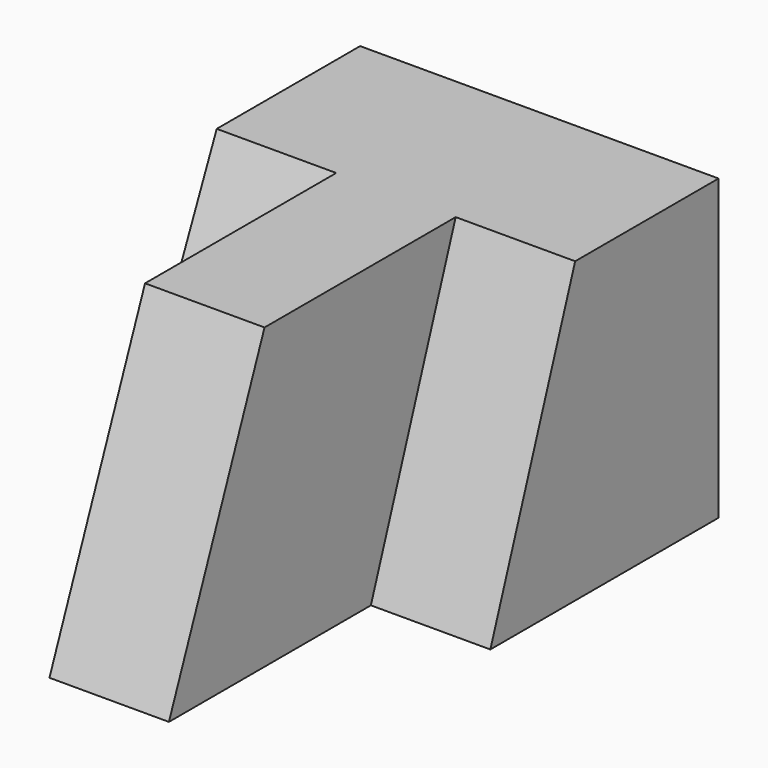
from build123d import *

# Parameters (mm, degrees)
F1_DEPTH = 31.75
F3_DEPTH = 12.7
F5_DEPTH = 12.7
F7_DEPTH = 12.7


with BuildPart() as f1:
    # F0 (on Top) → F1 (new body)
    with BuildSketch(Plane.XY):
        Polygon((-12.7, 0), (0, 0), (0, 25.4), (12.7, 25.4), (12.7, 44.45), (-25.4, 44.45), (-25.4, 25.4), (-12.7, 25.4), align=None)
    extrude(amount=F1_DEPTH)

    # F2 (on face) → F3 (join)
    with BuildSketch(Plane.YZ):
        Polygon((25.4, 31.75), (14.131341, 0), (25.4, 0), align=None)
    extrude(amount=F3_DEPTH)

    # F4 (on face) → F5 (join)
    with BuildSketch(Plane(origin=(-12.7, 0, 0), x_dir=(0, -1, 0), z_dir=(-1, 0, 0))):
        Polygon((-25.4, 0), (-11.329167, 0), (-25.4, 31.75), align=None)
    extrude(amount=F5_DEPTH)

    # F6 (on face) → F7 (join)
    with BuildSketch(Plane.YZ):
        Polygon((0, 31.75), (0, 0), (14.131341, 0), (25.4, 31.75), align=None)
        Polygon((-12.7, 0), (0, 0), (0, 31.75), align=None)
    extrude(amount=-F7_DEPTH)


solid = f1.part
